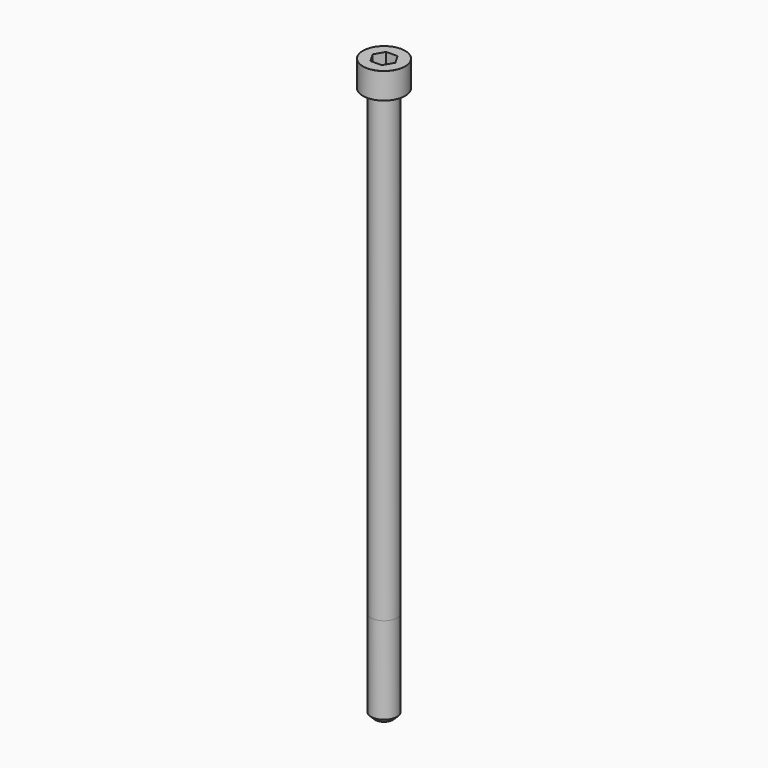
from build123d import *

# Parameters (mm, degrees)
POCKET_DEPTH = 6.06


with BuildPart() as part:
    # Sketch → Revolve (revolve)
    with BuildSketch(Plane.YZ):
        with BuildLine():
            Line((3.999, 0), (6.5, 0))
            Line((6.5, 0), (6.5, 7.97229))
            ThreePointArc((6.5, 7.97229), (6.491884, 7.991884), (6.47229, 8))
            Line((6.47229, 8), (0, 8))
            Line((0, -170), (0, 8))
            Line((2.75, -170), (0, -170))
            Line((4, -168.75), (2.75, -170))
            Line((4, -142), (4, -168.75))
            Line((3.999, 0), (4, -142))
        make_face()
    revolve(axis=Axis((0, 0, 0), (0, 0, 1)))

    # Sketch001 → Pocket (cut)
    with BuildSketch(Plane.XY.offset(8)):
        Polygon((3.498743, 0), (1.749371, 3.03), (-1.749371, 3.03), (-3.498743, 0), (-1.749371, -3.03), (1.749371, -3.03), align=None)
    extrude(amount=-POCKET_DEPTH, mode=Mode.SUBTRACT)


solid = part.part
